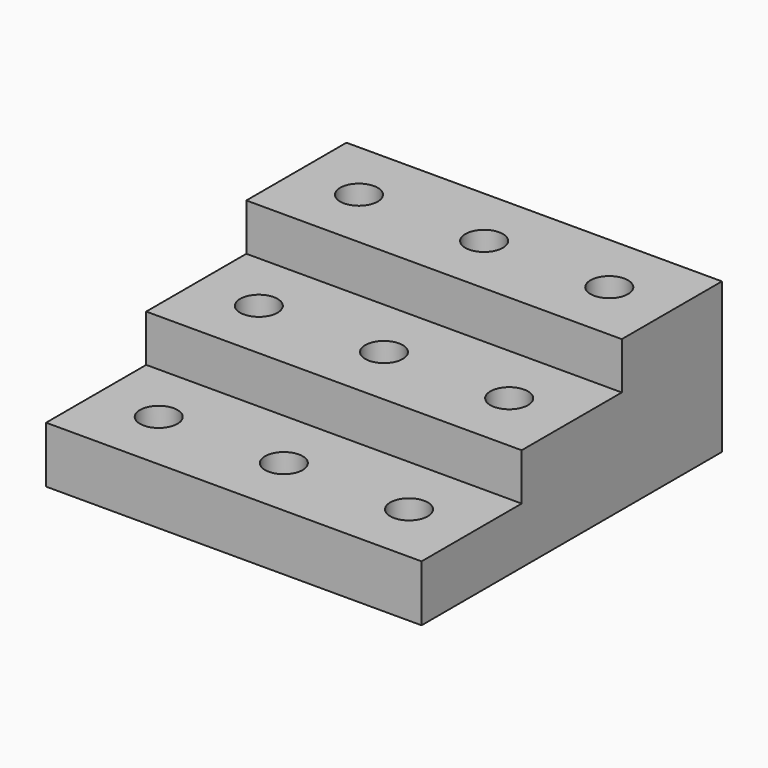
from build123d import *

# Parameters (mm, degrees)
F0_W      = 76.2
F0_H      = 25.4
F1_DEPTH  = 11.43
F2_R      = 3.81
F3_DEPTH  = 6.35
F4_W      = 76.2
F4_H      = 11.43
F5_DEPTH  = 25.4
F6_W      = 76.2
F6_H      = 25.4
F7_DEPTH  = 9.525
F8_W      = 76.2
F8_H      = 20.955
F9_DEPTH  = 25.4
F10_W     = 76.2
F10_H     = 25.4
F11_DEPTH = 9.525
F12_R     = 3.81
F13_DEPTH = 5.08
F14_R     = 3.81
F15_DEPTH = 6.35


with BuildPart() as f1:
    # F0 (on Top) → F1 (new body)
    with BuildSketch(Plane.XY):
        with Locations((38.1, 12.7)):
            Rectangle(F0_W, F0_H)
    extrude(amount=F1_DEPTH)

    # F2 (on face) → F3 (cut)
    with BuildSketch(Plane.XY.offset(11.43)):
        with Locations((12.7, 12.7)):
            Circle(F2_R)
        with Locations((38.1, 12.7)):
            Circle(F2_R)
        with Locations((63.5, 12.7)):
            Circle(F2_R)
    extrude(amount=-F3_DEPTH, mode=Mode.SUBTRACT)

    # F4 (on face) → F5 (join)
    with BuildSketch(Plane(origin=(0, 25.4, 0), x_dir=(-1, 0, 0), z_dir=(0, 1, 0))):
        with Locations((-38.1, 5.715)):
            Rectangle(F4_W, F4_H)
    extrude(amount=F5_DEPTH)

    # F6 (on face) → F7 (join)
    with BuildSketch(Plane.XY.offset(11.43)):
        with Locations((38.1, 38.1)):
            Rectangle(F6_W, F6_H)
    extrude(amount=F7_DEPTH)

    # F8 (on face) → F9 (join)
    with BuildSketch(Plane(origin=(0, 50.8, 0), x_dir=(-1, 0, 0), z_dir=(0, 1, 0))):
        with Locations((-38.1, 10.4775)):
            Rectangle(F8_W, F8_H)
    extrude(amount=F9_DEPTH)

    # F10 (on face) → F11 (join)
    with BuildSketch(Plane.XY.offset(20.955)):
        with Locations((38.1, 63.5)):
            Rectangle(F10_W, F10_H)
    extrude(amount=F11_DEPTH)

    # F12 (on face) → F13 (cut)
    with BuildSketch(Plane.XY.offset(20.955)):
        with Locations((12.7, 38.1)):
            Circle(F12_R)
        with Locations((38.1, 38.1)):
            Circle(F12_R)
        with Locations((63.5, 38.1)):
            Circle(F12_R)
    extrude(amount=-F13_DEPTH, mode=Mode.SUBTRACT)

    # F14 (on face) → F15 (cut)
    with BuildSketch(Plane.XY.offset(30.48)):
        with Locations((12.7, 63.5)):
            Circle(F14_R)
        with Locations((38.1, 63.5)):
            Circle(F14_R)
        with Locations((63.5, 63.5)):
            Circle(F14_R)
    extrude(amount=-F15_DEPTH, mode=Mode.SUBTRACT)


solid = f1.part
